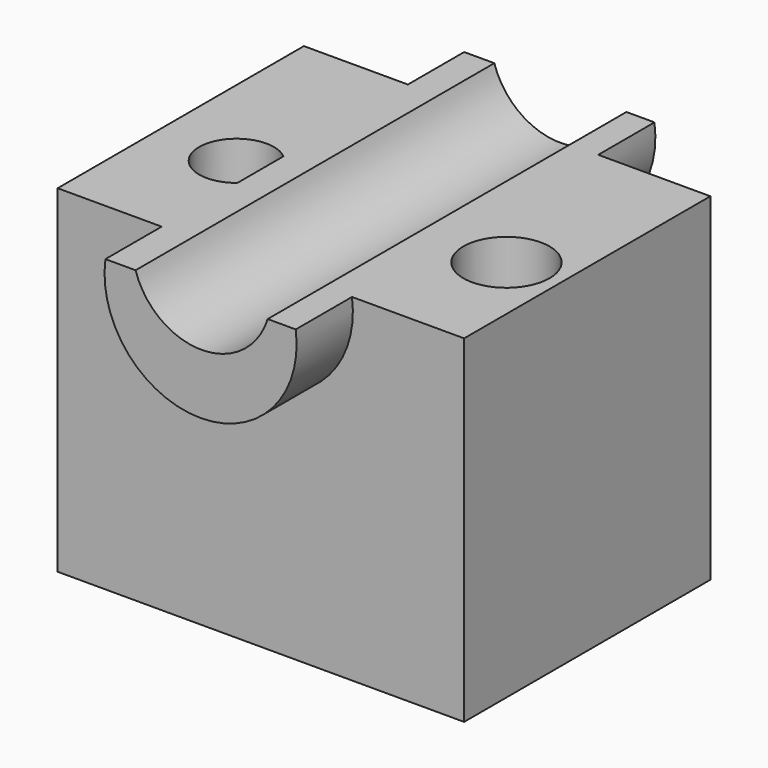
from build123d import *

# Parameters (mm, degrees)
F1_DEPTH = 42.418
F2_DEPTH = 25.4
F3_R     = 8.2419293277
F3_R_2   = 9.4983562565
F4_DEPTH = 25.4
F6_DEPTH = 15.494
F7_DEPTH = 98.806


with BuildPart() as f1:
    # F0 (on Front) → F1 (new body)
    with BuildSketch(Plane.XZ):
        with BuildLine():
            Line((-44.7798408568, -37.1997542679), (44.7798408568, -37.1997542679))
            Line((44.7798408568, -37.1997542679), (44.7798408568, 37.1997542679))
            Line((44.7798408568, 37.1997542679), (13.8912415132, 37.1997542679))
            ThreePointArc((13.8912415132, 37.1997542679), (-0.6620394997, 26.4881938236), (-15.2153205127, 37.1997542679))
            Line((-15.2153205127, 37.1997542679), (-44.7798408568, 37.1997542679))
            Line((-44.7798408568, 37.1997542679), (-44.7798408568, -37.1997542679))
        make_face()
    extrude(amount=F1_DEPTH)

    # F2 (add): a face of the model
    f2_faces = [f1.faces().sort_by_distance(p)[0] for p in [
        (0.023550187, 0, -1.1650746178),
    ]]
    extrude(f2_faces, amount=F2_DEPTH)

    # F3 (on face) → F4 (cut)
    with BuildSketch(Plane.XY.offset(37.1997542679)):
        with Locations((-27.1278675646, -15.2127910405)):
            Circle(F3_R)
        with Locations((32.7657014132, -15.7461762428)):
            Circle(F3_R_2)
    extrude(amount=-F4_DEPTH, mode=Mode.SUBTRACT)

    # F5 (on face) → F6 (join)
    with BuildSketch(Plane(origin=(0, 25.4, 0), x_dir=(-1, 0, 0), z_dir=(0, 1, 0))):
        with BuildLine():
            Line((-13.8912415132, 37.1997542679), (-20.0768597424, 37.1997542679))
            ThreePointArc((-20.0768597424, 37.1997542679), (0.892303884, 13.1906008043), (21.8614675105, 37.1997542679))
            Line((21.8614675105, 37.1997542679), (15.2153205127, 37.1997542679))
            ThreePointArc((15.2153205127, 37.1997542679), (0.6620394997, 26.4881938236), (-13.8912415132, 37.1997542679))
        make_face()
    extrude(amount=F6_DEPTH)

    # F7 (add): a face of the model
    f7_faces = [f1.faces().sort_by_distance(p)[0] for p in [
        (-0.9809266979, 40.894, 24.6318150019),
    ]]
    extrude(f7_faces, amount=-F7_DEPTH)


solid = f1.part
